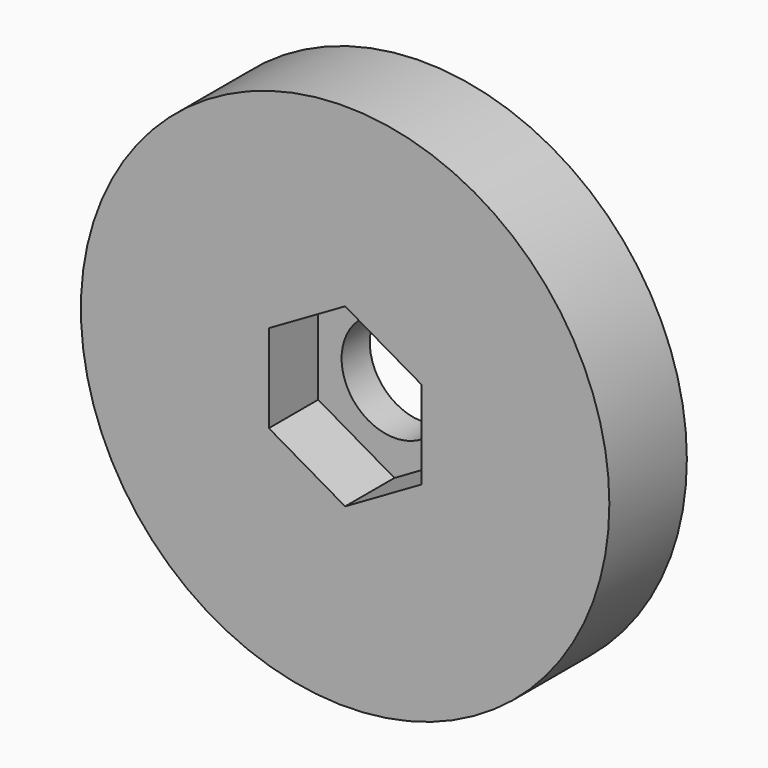
from build123d import *

# Parameters (mm, degrees)
F0_R     = 15
F1_DEPTH = 3.5
F0_R_2   = 3
F2_DEPTH = 2


with BuildPart() as f1:
    # F0 (on Front) → F1 (new body)
    with BuildSketch(Plane.XZ):
        Circle(F0_R)
        Polygon((-4.330127, 2.5), (0, 5), (4.330127, 2.5), (4.330127, -2.5), (0, -5), (-4.330127, -2.5), align=None, mode=Mode.SUBTRACT)
    extrude(amount=F1_DEPTH)

    # F0 (on Front) → F2 (join)
    with BuildSketch(Plane.XZ):
        Circle(F0_R)
        Polygon((-4.330127, 2.5), (0, 5), (4.330127, 2.5), (4.330127, -2.5), (0, -5), (-4.330127, -2.5), align=None, mode=Mode.SUBTRACT)
        Polygon((4.330127, 2.5), (0, 5), (-4.330127, 2.5), (-4.330127, -2.5), (0, -5), (4.330127, -2.5), align=None)
        Circle(F0_R_2, mode=Mode.SUBTRACT)
    extrude(amount=-F2_DEPTH)


solid = f1.part
